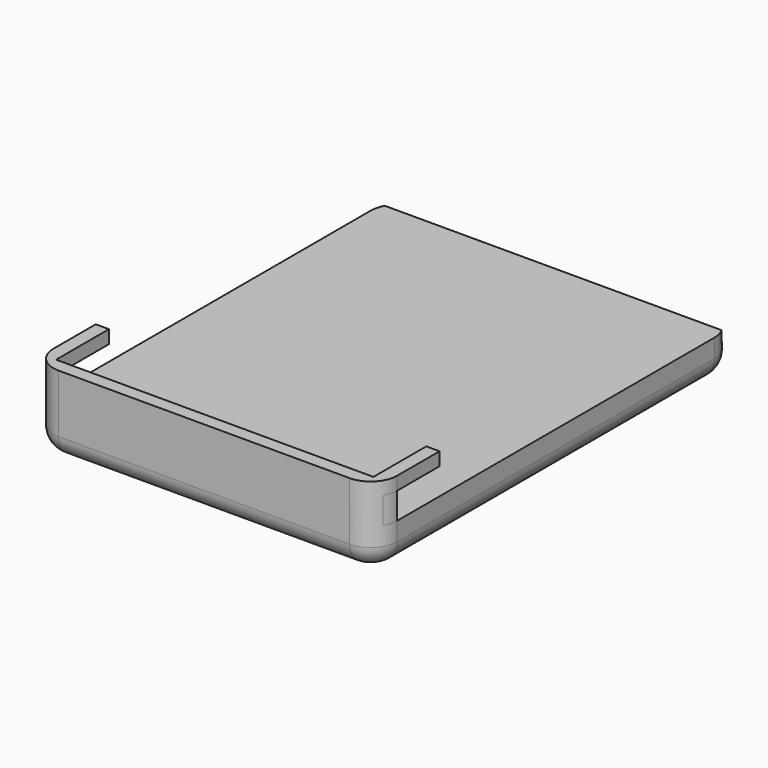
from build123d import *

# Parameters (mm, degrees)
F1_DEPTH  = 19.05
F2_R      = 5.08
F3_W      = 76.2
F3_H      = 101.6
F4_DEPTH  = 9.525
F6_DEPTH  = 12.7
F8_DEPTH  = 25.4
F10_DEPTH = 3.175
F12_DEPTH = 6.35
F14_DEPTH = 6.35


with BuildPart() as f1:
    # F0 (on Top) → F1 (new body)
    with BuildSketch(Plane.XY):
        with BuildLine():
            ThreePointArc((41.275, 47.625), (39.4151280605, 52.1151280605), (34.925, 53.975))
            Line((34.925, 53.975), (-34.925, 53.975))
            ThreePointArc((-34.925, 53.975), (-39.4151280605, 52.1151280605), (-41.275, 47.625))
            Line((-41.275, 47.625), (-41.275, -47.625))
            ThreePointArc((-41.275, -47.625), (-39.4151280605, -52.1151280605), (-34.925, -53.975))
            Line((-34.925, -53.975), (34.925, -53.975))
            ThreePointArc((34.925, -53.975), (39.4151280605, -52.1151280605), (41.275, -47.625))
            Line((41.275, -47.625), (41.275, 47.625))
        make_face()
    extrude(amount=F1_DEPTH)

    # F2
    f2_edges = [f1.edges().sort_by_distance(p)[0] for p in [
        (0, -53.975, 0),
    ]]
    fillet(f2_edges, radius=F2_R)

    # F3 (on face) → F4 (cut)
    with BuildSketch(Plane.XY.offset(19.05)):
        Rectangle(F3_W, F3_H)
    extrude(amount=-F4_DEPTH, mode=Mode.SUBTRACT)

    # F5 (on face) → F6 (cut)
    with BuildSketch(Plane.XY.offset(19.05)):
        with BuildLine():
            ThreePointArc((-34.925, 53.975), (-38.1, 53.124261314), (-40.424261314, 50.8))
            Line((-40.424261314, 50.8), (-38.1, 50.8))
            Line((-38.1, 50.8), (38.1, 50.8))
            Line((38.1, 50.8), (40.424261314, 50.8))
            ThreePointArc((40.424261314, 50.8), (38.1, 53.124261314), (34.925, 53.975))
            Line((34.925, 53.975), (-34.925, 53.975))
        make_face()
    extrude(amount=-F6_DEPTH, mode=Mode.SUBTRACT)

    # F7 (on face) → F8 (cut)
    with BuildSketch(Plane(origin=(38.1, 0, 0), x_dir=(0, -1, 0), z_dir=(-1, 0, 0))):
        Polygon((34.925, 15.875), (34.925, 19.05), (-50.8, 19.05), (-50.8, 9.525), (50.8, 9.525), (50.8, 15.875), align=None)
    extrude(amount=-F8_DEPTH, mode=Mode.SUBTRACT)

    # F9 (on face) → F10 (cut)
    with BuildSketch(Plane.YZ.offset(-38.1)):
        Polygon((50.8, 19.05), (-34.925, 19.05), (-34.925, 15.875), (-50.8, 15.875), (-50.8, 9.525), (50.8, 9.525), align=None)
    extrude(amount=-F10_DEPTH, mode=Mode.SUBTRACT)

    # F11 (on face) → F12 (join)
    with BuildSketch(Plane(origin=(0, 0, 15.875), x_dir=(1, 0, 0), z_dir=(0, 0, -1))):
        with BuildLine():
            Line((38.1, 47.625), (41.275, 47.625))
            ThreePointArc((41.275, 47.625), (41.0586289969, 49.2685009364), (40.424261314, 50.8))
            Line((40.424261314, 50.8), (38.1, 50.8))
            Line((38.1, 50.8), (38.1, 47.625))
        make_face()
    extrude(amount=F12_DEPTH)

    # F13 (on face) → F14 (join)
    with BuildSketch(Plane(origin=(0, 0, 15.875), x_dir=(1, 0, 0), z_dir=(0, 0, -1))):
        with BuildLine():
            ThreePointArc((-40.424261314, 50.8), (-41.0586289969, 49.2685009364), (-41.275, 47.625))
            Line((-41.275, 47.625), (-38.1, 47.625))
            Line((-38.1, 47.625), (-38.1, 50.8))
            Line((-38.1, 50.8), (-40.424261314, 50.8))
        make_face()
    extrude(amount=F14_DEPTH)


solid = f1.part
